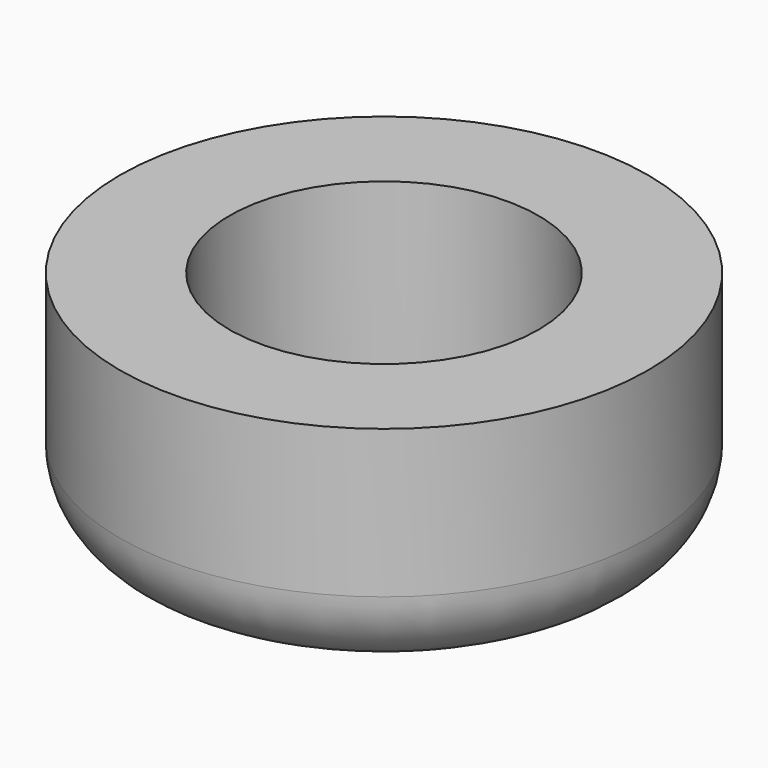
from build123d import *

# Parameters (mm, degrees)
F0_R     = 50
F1_DEPTH = 43
F2_R     = 29.25
F3_DEPTH = 35.5
F4_R     = 15
F5_R     = 9.5
F6_DEPTH = 8


with BuildPart() as f1:
    # F0 (on Top) → F1 (new body)
    with BuildSketch(Plane.XY):
        Circle(F0_R)
    extrude(amount=F1_DEPTH)

    # F2 (on face) → F3 (cut)
    with BuildSketch(Plane.XY.offset(43)):
        Circle(F2_R)
    extrude(amount=-F3_DEPTH, mode=Mode.SUBTRACT)

    # F4
    f4_edges = [f1.edges().sort_by_distance(p)[0] for p in [
        (-50, 0, 0),
    ]]
    fillet(f4_edges, radius=F4_R)

    # F5 (on face) → F6 (cut)
    with BuildSketch(Plane(origin=(0, 0, 0), x_dir=(1, 0, 0), z_dir=(0, 0, -1))):
        Circle(F5_R)
    extrude(amount=-F6_DEPTH, mode=Mode.SUBTRACT)


solid = f1.part
